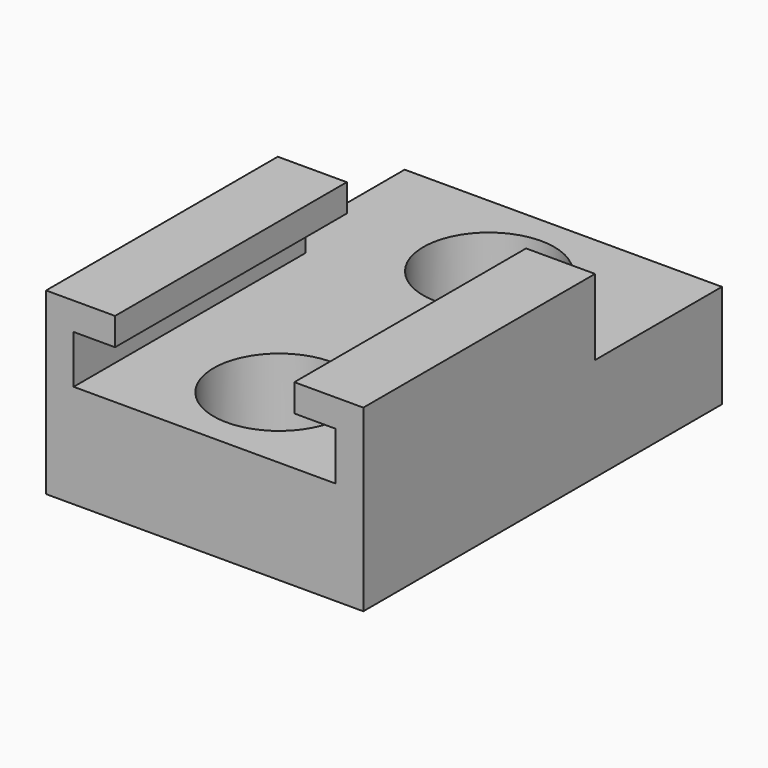
from build123d import *

# Parameters (mm, degrees)
F0_W     = 23
F0_H     = 32.5
F0_R     = 2.75
F1_DEPTH = 7.5
F2_R     = 4.75
F3_DEPTH = 5.5
F4_W     = 2
F4_H     = 21
F5_DEPTH = 3.5
F6_W     = 5
F6_H     = 21
F7_DEPTH = 2


with BuildPart() as f1:
    # F0 (on Top) → F1 (new body)
    with BuildSketch(Plane.XY):
        Rectangle(F0_W, F0_H)
        with Locations((0, -9.5)):
            Circle(F0_R, mode=Mode.SUBTRACT)
        with Locations((0, 9.5)):
            Circle(F0_R, mode=Mode.SUBTRACT)
    extrude(amount=F1_DEPTH)

    # F2 (on face) → F3 (cut)
    with BuildSketch(Plane.XY.offset(7.5)):
        with Locations((0, -9.5)):
            Circle(F2_R)
        with Locations((0, 9.5)):
            Circle(F2_R)
    extrude(amount=-F3_DEPTH, mode=Mode.SUBTRACT)

    # F4 (on face) → F5 (join)
    with BuildSketch(Plane.XY.offset(7.5)):
        with Locations((-10.5, -5.75)):
            Rectangle(F4_W, F4_H)
        with Locations((10.5, -5.75)):
            Rectangle(F4_W, F4_H)
    extrude(amount=F5_DEPTH)

    # F6 (on face) → F7 (join)
    with BuildSketch(Plane.XY.offset(11)):
        with Locations((-9, -5.75)):
            Rectangle(F6_W, F6_H)
        with Locations((9, -5.75)):
            Rectangle(F6_W, F6_H)
    extrude(amount=F7_DEPTH)


solid = f1.part
